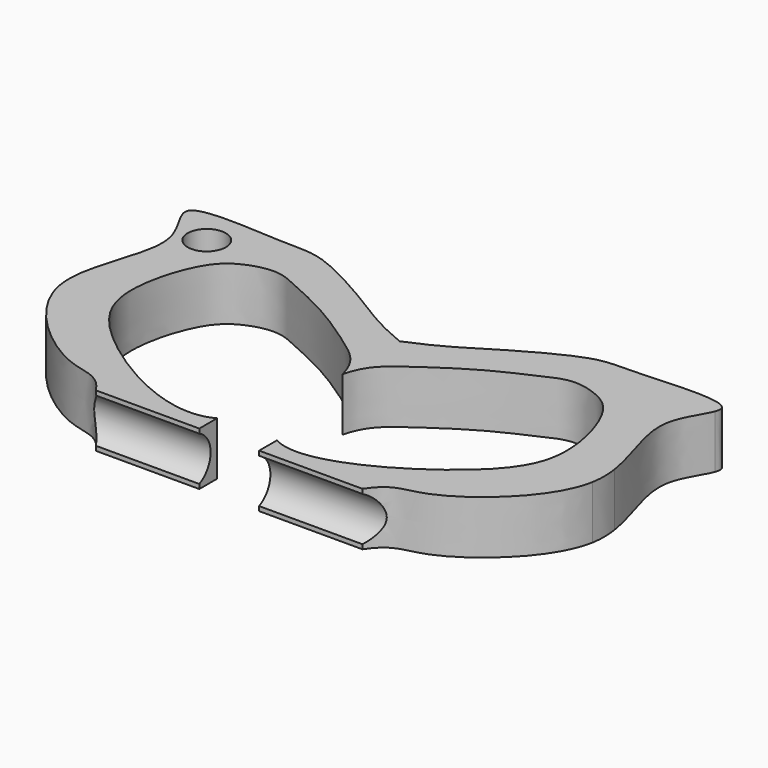
from build123d import *

# Parameters (mm, degrees)
F1_DEPTH = 7.62
F2_R     = 3.4925
F3_DEPTH = 33.9854793042
F5_R     = 2.7269876372
F6_DEPTH = 7.6210001


with BuildPart() as f1:
    # F0 (on Top) → F1 (new body)
    with BuildSketch(Plane.XY):
        with BuildLine():
            add(Edge.make_bspline(
                [(-38.1, 39.2115438048), (-38.2847692468, 39.711458305), (-38.3228403498, 40.1295749743), (-38.1, 40.4507518793)],
                knots=[0.494190965, 0.494190965, 0.494190965, 0.494190965, 0.5216240255, 0.5216240255, 0.5216240255, 0.5216240255], degree=3))
            Line((-38.1, 39.2115438048), (-38.1, 40.4507518793))
        make_face()
        with BuildLine():
            add(Edge.make_bspline(
                [(-38.1, 40.4507518793), (-37.0124226459, 42.0182630098), (-24.4252225341, 40.7400480218), (-21.2690580878, 41.1953618502), (-19.05, 40.4507518793)],
                knots=[0.5216240255, 0.5216240255, 0.5216240255, 0.5216240255, 0.655511696, 0.7524085123, 0.7524085123, 0.7524085123, 0.7524085123], degree=3))
            Line((-38.1, 40.4507518793), (-19.05, 40.4507518793))
        make_face()
        with BuildLine():
            add(Edge.make_bspline(
                [(-19.05, 0), (-21.1365986615, 3.1551636106), (-25.4592603793, 1.6550782623), (-37.0069583102, 11.2340784195), (-38.1, 17.3121340597)],
                knots=[0, 0, 0, 0, 0.1035447663, 0.2662497665, 0.2662497665, 0.2662497665, 0.2662497665], degree=3))
            Line((-19.05, 0), (-4.2769578286, 0))
            Line((-4.2769578286, 0), (-4.2769578286, 3.1861836761))
            add(Edge.make_bspline(
                [(-4.2769578286, 3.1861836761), (-9.6115248959, 0.2294938952), (-27.3965681938, 10.5452335102), (-32.4664347538, 20.2243220026), (-29.1599262979, 31.3823338685), (-25.5696603, 34.2017144028), (-21.0064211516, 35.3819757164), (-17.3660215457, 33.5491519438), (-11.5021518523, 31.0450714), (-4.014982368, 25.9543175809), (-0.75226275, 23.3623161775), (0, 20.2253759397)],
                knots=[0, 0, 0, 0, 0.1597804465, 0.272815311, 0.3801378333, 0.4503736314, 0.51930212, 0.5850541236, 0.6700256475, 0.7696768394, 0.8596113891, 0.8596113891, 0.8596113891, 0.8596113891], degree=3))
            Line((0, 20.2253759397), (0, 30.4539563505))
            add(Edge.make_bspline(
                [(-19.05, 40.4507518793), (-16.0428260338, 39.4416878392), (-7.2773009383, 34.2987295016), (-4.2898937539, 32.2340244008), (0, 30.4539563505)],
                knots=[0.7524085123, 0.7524085123, 0.7524085123, 0.7524085123, 0.8837189926, 1, 1, 1, 1], degree=3))
            Line((-19.05, 40.4507518793), (-38.1, 40.4507518793))
            Line((-38.1, 40.4507518793), (-38.1, 39.2115438048))
            add(Edge.make_bspline(
                [(-38.1, 21.2508498566), (-37.4415322866, 25.6972738025), (-33.5112301035, 32.7885599039), (-37.6003404813, 37.8596573689), (-38.1, 39.2115438048)],
                knots=[0.3012734584, 0.3012734584, 0.3012734584, 0.3012734584, 0.4200055146, 0.494190965, 0.494190965, 0.494190965, 0.494190965], degree=3))
            Line((-38.1, 21.2508498566), (-38.1, 17.3121340597))
        make_face()
        with BuildLine():
            add(Edge.make_bspline(
                [(-38.1, 17.3121340597), (-38.3352869013, 18.6204893504), (-38.2942354158, 19.939239604), (-38.1, 21.2508498566)],
                knots=[0.2662497665, 0.2662497665, 0.2662497665, 0.2662497665, 0.3012734584, 0.3012734584, 0.3012734584, 0.3012734584], degree=3))
            Line((-38.1, 17.3121340597), (-38.1, 21.2508498566))
        make_face()
    extrude(amount=F1_DEPTH)

    # F2 (on face) → F3 (cut, through all)
    with BuildSketch(Plane.YZ.offset(-4.2769578286)):
        with Locations((-1.4735446312, 3.8072476164)):
            Circle(F2_R)
    extrude(amount=-F3_DEPTH, mode=Mode.SUBTRACT)

    # F4: F1 across plane


with BuildPart() as f1_1:
    add(f1.part)
    add(f1.part.mirror(Plane.YZ))

    # F5 (on face) → F6 (cut, through all)
    with BuildSketch(Plane.XY.offset(7.62)):
        with Locations((-32.0805758238, 36.0858552158)):
            Circle(F5_R)
    extrude(amount=-F6_DEPTH, mode=Mode.SUBTRACT)


solid = f1_1.part
